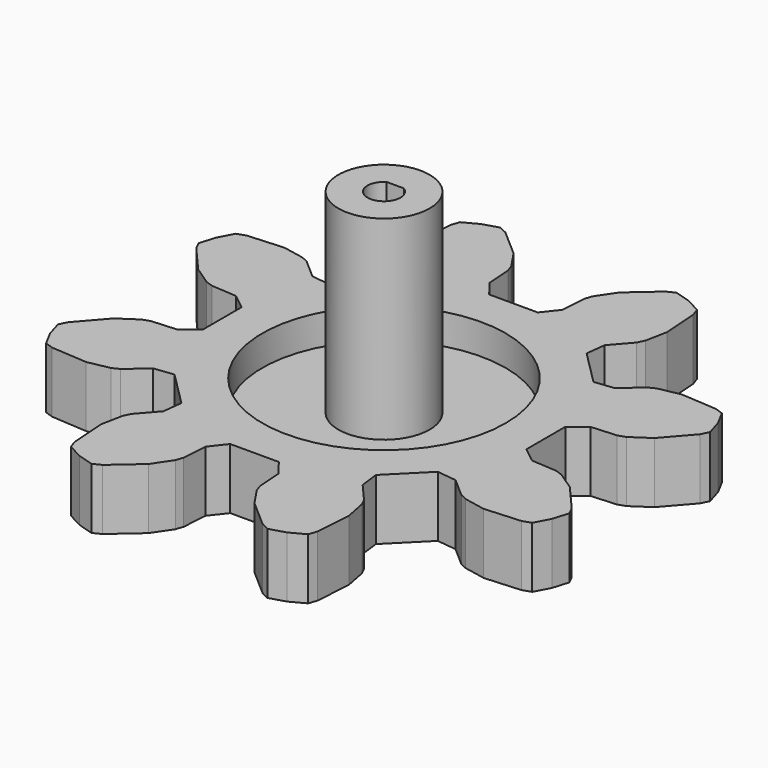
from build123d import *

# Parameters (mm, degrees)
F1_DEPTH = 12.7
F2_R     = 9.525
F3_DEPTH = 34.29
F4_DEPTH = 25.4
F2_R_2   = 25.4
F5_DEPTH = 6.35


with BuildPart() as f1:
    # F0 (on Top) → F1 (new body)
    with BuildSketch(Plane.XY):
        Polygon((-48.986719159, 25.3412460777), (-50.7255351294, 24.7465363945), (-52.3601977854, 21.688304154), (-53.366815822, 18.3699267661), (-52.5578082129, 16.719871907), (-47.6057296253, 11.0468524364), (-43.80914346, 8.4974130761), (-42.2801519731, 7.9744654227), (-37.0147232049, 7.6171909331), (-33.782, 5.0679251692), (-33.782, -5.0679251692), (-37.0147232049, -7.6171909331), (-42.2801519731, -7.9744654227), (-43.80914346, -8.4974130761), (-47.6057296253, -11.0468524364), (-52.5578082129, -16.719871907), (-53.366815822, -18.3699267661), (-52.3601977854, -21.688304154), (-50.7255351294, -24.7465363945), (-48.986719159, -25.3412460777), (-41.4736370284, -25.8510271212), (-36.9863201834, -24.9691669416), (-35.5353802528, -24.2577827562), (-31.559527, -20.7871925925), (-27.4710453735, -20.303918365), (-20.303918365, -27.4710453735), (-20.7871925925, -31.559527), (-24.2577827562, -35.5353802528), (-24.9691669416, -36.9863201834), (-25.8510271212, -41.4736370284), (-25.3412460777, -48.986719159), (-24.7465363945, -50.7255351294), (-21.688304154, -52.3601977854), (-18.3699267661, -53.366815822), (-16.719871907, -52.5578082129), (-11.0468524364, -47.6057296253), (-8.4974130761, -43.80914346), (-7.9744654227, -42.2801519731), (-7.6171909331, -37.0147232049), (-5.0679251692, -33.782), (5.0679251692, -33.782), (7.6171909331, -37.0147232049), (7.9744654227, -42.2801519731), (8.4974130761, -43.80914346), (11.0468524364, -47.6057296253), (16.719871907, -52.5578082129), (18.3699267661, -53.366815822), (21.688304154, -52.3601977854), (24.7465363945, -50.7255351294), (25.3412460777, -48.986719159), (25.8510271212, -41.4736370284), (24.9691669416, -36.9863201834), (24.2577827562, -35.5353802528), (20.7871925925, -31.559527), (20.303918365, -27.4710453735), (27.4710453735, -20.303918365), (31.559527, -20.7871925925), (35.5353802528, -24.2577827562), (36.9863201834, -24.9691669416), (41.4736370284, -25.8510271212), (48.986719159, -25.3412460777), (50.7255351294, -24.7465363945), (52.3601977854, -21.688304154), (53.366815822, -18.3699267661), (52.5578082129, -16.719871907), (47.6057296253, -11.0468524364), (43.80914346, -8.4974130761), (42.2801519731, -7.9744654227), (37.0147232049, -7.6171909331), (33.782, -5.0679251692), (33.782, 5.0679251692), (37.0147232049, 7.6171909331), (42.2801519731, 7.9744654227), (43.80914346, 8.4974130761), (47.6057296253, 11.0468524364), (52.5578082129, 16.719871907), (53.366815822, 18.3699267661), (52.3601977854, 21.688304154), (50.7255351294, 24.7465363945), (48.986719159, 25.3412460777), (41.4736370284, 25.8510271212), (36.9863201834, 24.9691669416), (35.5353802528, 24.2577827562), (31.559527, 20.7871925925), (27.4710453735, 20.303918365), (20.303918365, 27.4710453735), (20.7871925925, 31.559527), (24.2577827562, 35.5353802528), (24.9691669416, 36.9863201834), (25.8510271212, 41.4736370284), (25.3412460777, 48.986719159), (24.7465363945, 50.7255351294), (21.688304154, 52.3601977854), (18.3699267661, 53.366815822), (16.719871907, 52.5578082129), (11.0468524364, 47.6057296253), (8.4974130761, 43.80914346), (7.9744654227, 42.2801519731), (7.6171909331, 37.0147232049), (5.0679251692, 33.782), (-5.0679251692, 33.782), (-7.6171909331, 37.0147232049), (-7.9744654227, 42.2801519731), (-8.4974130761, 43.80914346), (-11.0468524364, 47.6057296253), (-16.719871907, 52.5578082129), (-18.3699267661, 53.366815822), (-21.688304154, 52.3601977854), (-24.7465363945, 50.7255351294), (-25.3412460777, 48.986719159), (-25.8510271212, 41.4736370284), (-24.9691669416, 36.9863201834), (-24.2577827562, 35.5353802528), (-20.7871925925, 31.559527), (-20.303918365, 27.4710453735), (-27.4710453735, 20.303918365), (-31.559527, 20.7871925925), (-35.5353802528, 24.2577827562), (-36.9863201834, 24.9691669416), (-41.4736370284, 25.8510271212), align=None)
        Polygon((-6.457554456, 6.1279886028), (-5.0423575535, 7.3366771559), (-3.4067913067, 8.2247200336), (-1.622328418, 8.7533028893), (0.2330374214, 8.8993240645), (2.0782189459, 8.6564005578), (3.8325695574, 8.0351529003), (5.4194220185, 7.0627288788), (6.7694179402, 5.7816284228), (7.8235568446, 4.247847459), (8.5357689507, 2.5284119549), (8.8749315621, 0.6984712932), (8.8262133252, -1.1619911548), (8.3917463583, -2.9716744665), (7.5905194232, -4.6514766054), (6.457554456, -6.1279886028), (5.0423575535, -7.3366771559), (3.4067913067, -8.2247200336), (1.622328418, -8.7533028893), (-0.2330374214, -8.8993240645), (-2.0782189459, -8.6564005578), (-3.8325695574, -8.0351529003), (-5.4194220185, -7.0627288788), (-6.7694179402, -5.7816284228), (-7.8235568446, -4.247847459), (-8.5357689507, -2.5284119549), (-8.8749315621, -0.6984712932), (-8.8262133252, 1.1619911548), (-8.3917463583, 2.9716744665), (-7.5905194232, 4.6514766054), align=None, mode=Mode.SUBTRACT)
        Polygon((-3.4067913067, 8.2247200336), (-5.0423575535, 7.3366771559), (-6.457554456, 6.1279886028), (-7.5905194232, 4.6514766054), (-8.3917463583, 2.9716744665), (-8.8262133252, 1.1619911548), (-8.8749315621, -0.6984712932), (-8.5357689507, -2.5284119549), (-7.8235568446, -4.247847459), (-6.7694179402, -5.7816284228), (-5.4194220185, -7.0627288788), (-3.8325695574, -8.0351529003), (-2.0782189459, -8.6564005578), (-0.2330374214, -8.8993240645), (1.622328418, -8.7533028893), (3.4067913067, -8.2247200336), (5.0423575535, -7.3366771559), (6.457554456, -6.1279886028), (7.5905194232, -4.6514766054), (8.3917463583, -2.9716744665), (8.8262133252, -1.1619911548), (8.8749315621, 0.6984712932), (8.5357689507, 2.5284119549), (7.8235568446, 4.247847459), (6.7694179402, 5.7816284228), (5.4194220185, 7.0627288788), (3.8325695574, 8.0351529003), (2.0782189459, 8.6564005578), (0.2330374214, 8.8993240645), (-1.622328418, 8.7533028893), align=None)
    extrude(amount=F1_DEPTH)

    # F2 (on face) → F3 (join)
    with BuildSketch(Plane.XY.offset(12.7)):
        Circle(F2_R)
        with BuildLine():
            ThreePointArc((1.7960512242, 2.921), (2.9930503377, 1.6732276223), (3.429, 0))
            ThreePointArc((3.429, 0), (-1.6732276223, -2.9930503377), (-1.7960512242, 2.921))
            ThreePointArc((-1.7960512242, 2.921), (0, 3.429), (1.7960512242, 2.921))
        make_face(mode=Mode.SUBTRACT)
        with BuildLine():
            Line((-1.7960512242, 2.921), (1.7960512242, 2.921))
            ThreePointArc((1.7960512242, 2.921), (0, 3.429), (-1.7960512242, 2.921))
        make_face()
    extrude(amount=F3_DEPTH)

    # F4 (cut): a face of the model
    f4_faces = [f1.faces().sort_by_distance(p)[0] for p in [
        (0, -0.108182678, 12.7),
    ]]
    extrude(f4_faces, amount=-F4_DEPTH, mode=Mode.SUBTRACT)

    # F2 (on face) → F5 (cut)
    with BuildSketch(Plane.XY.offset(12.7)):
        Circle(F2_R_2)
        Circle(F2_R, mode=Mode.SUBTRACT)
    extrude(amount=-F5_DEPTH, mode=Mode.SUBTRACT)


solid = f1.part
